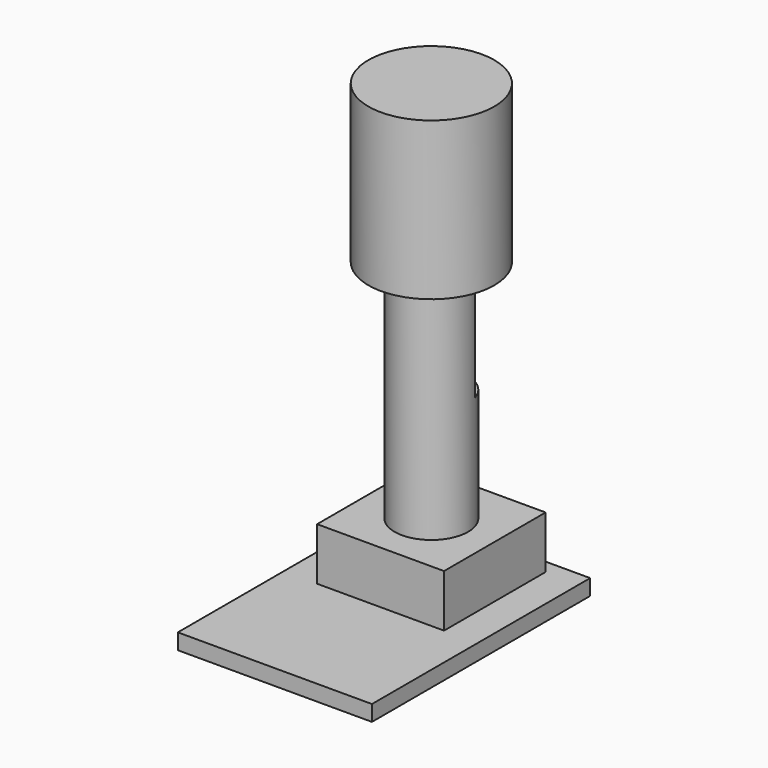
from build123d import *

# Parameters (mm, degrees)
F0_W      = 18.5
F0_H      = 26
F1_DEPTH  = 1.5
F2_W      = 12.1
F2_H      = 12.1
F3_DEPTH  = 5
F4_R      = 3.5
F5_DEPTH  = 21.5
F7_DEPTH  = 10.7
F8_R      = 6
F9_DEPTH  = 15
F10_DEPTH = 25


with BuildPart() as f1:
    # F0 (on Top) → F1 (new body)
    with BuildSketch(Plane.XY):
        Rectangle(F0_W, F0_H)
    extrude(amount=F1_DEPTH)

    # F2 (on face) → F3 (join)
    with BuildSketch(Plane.XY.offset(1.5)):
        with Locations((0, 5.640632961)):
            Rectangle(F2_W, F2_H)
    extrude(amount=F3_DEPTH)

    # F4 (on face) → F5 (join)
    with BuildSketch(Plane.XY.offset(6.5)):
        with Locations((0, 5.640632961)):
            Circle(F4_R)
    extrude(amount=F5_DEPTH)

    # F6 (on face) → F7 (cut)
    with BuildSketch(Plane.XY.offset(28)):
        with BuildLine():
            Line((-3.3541019662, 6.640632961), (0, 6.640632961))
            Line((0, 6.640632961), (3.3541019662, 6.640632961))
            ThreePointArc((3.3541019662, 6.640632961), (0, 9.140632961), (-3.3541019662, 6.640632961))
        make_face()
    extrude(amount=-F7_DEPTH, mode=Mode.SUBTRACT)

    # F8 (on face) → F9 (join)
    with BuildSketch(Plane.XY.offset(28)):
        with Locations((0, 5.640632961)):
            Circle(F8_R)
    extrude(amount=F9_DEPTH)

    # F10 (cut): a face of the model
    f10_faces = [f1.faces().sort_by_distance(p)[0] for p in [
        (0, 7.6794032986, 17.3),
    ]]
    extrude(f10_faces, amount=F10_DEPTH, mode=Mode.SUBTRACT)


solid = f1.part
